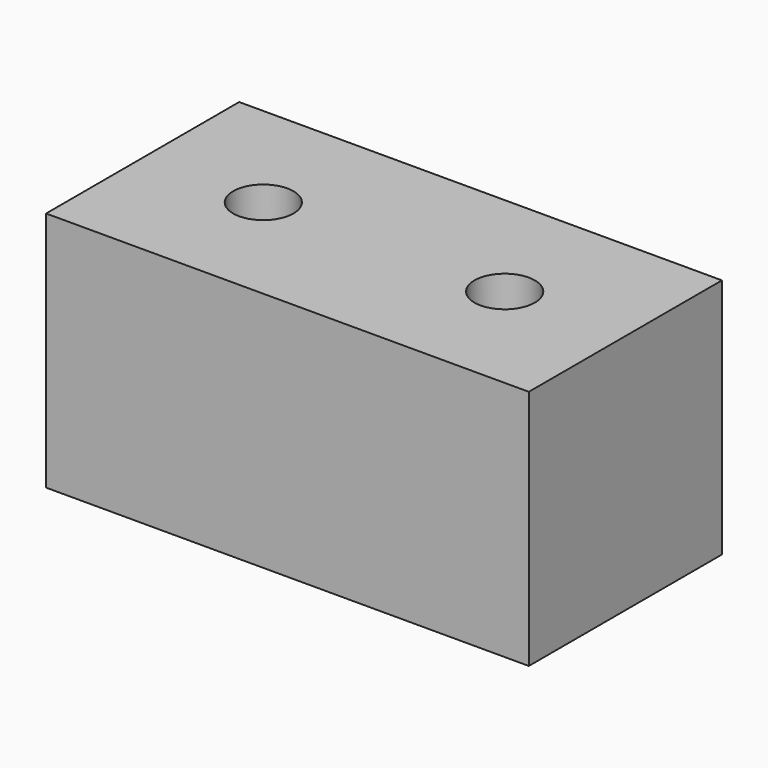
from build123d import *

# Parameters (mm, degrees)
F0_W     = 20
F0_H     = 10
F1_DEPTH = 10
F2_D     = 2.5


with BuildPart() as f1:
    # F0 (on Top) → F1 (new body)
    with BuildSketch(Plane.XY):
        Rectangle(F0_W, F0_H)
    extrude(amount=-F1_DEPTH)

    # F2 (through all)
    with Locations(Plane.XY):
        with Locations((-5, 0), (5, 0)):
            Hole(F2_D / 2)


solid = f1.part
